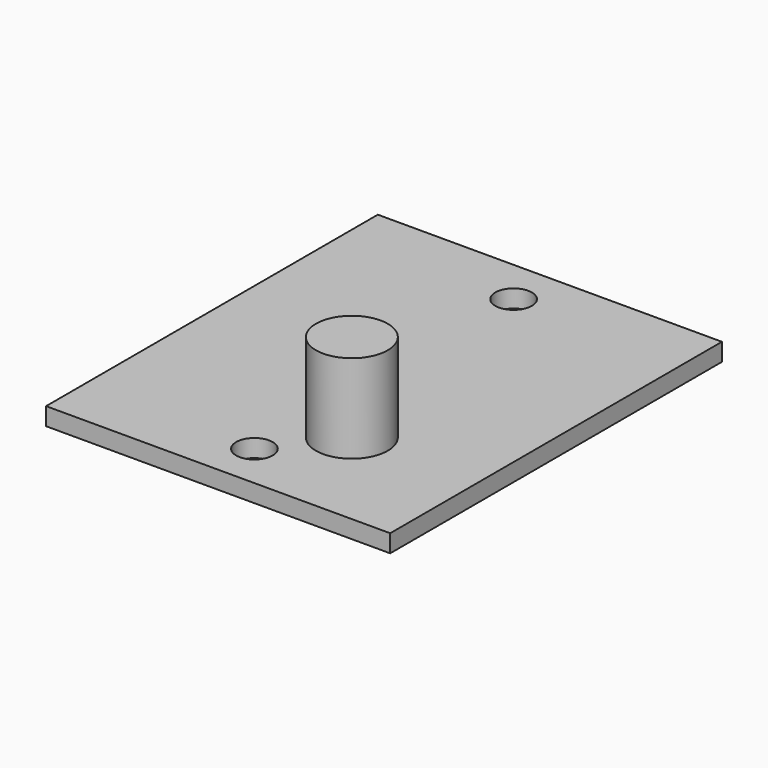
from build123d import *

# Parameters (mm, degrees)
SKETCH018_W             = 31.12
SKETCH018_H             = 37.5
PAD010_DEPTH            = 1.6
SKETCH019_R             = 1.65
POCKET006_DEPTH         = 99.115397
SKETCH032_R             = 3.25
PAD018_DEPTH            = 8
BODY003_PLACEMENT_ANGLE = 180


with BuildPart() as part:
    # Sketch018 → Pad010 (new body)
    with BuildSketch(Plane.XY):
        Rectangle(SKETCH018_W, SKETCH018_H)
    extrude(amount=PAD010_DEPTH)

    # Sketch019 (on Face5 of Pad010) → Pocket006 (cut, through all)
    with BuildSketch(Plane(origin=(0, 0, 0), x_dir=(1, 0, 0), z_dir=(0, 0, -1))):
        with Locations((0, 14.65)):
            Circle(SKETCH019_R)
    pocket006 = extrude(amount=-POCKET006_DEPTH, mode=Mode.SUBTRACT)

    # Mirrored008: Pocket006 across Sketch019 H_Axis
    add(pocket006.mirror(Plane(origin=(0, 0, 0), x_dir=(0, 0, -1), z_dir=(0, -1, 0))), mode=Mode.SUBTRACT)

    # Sketch032 (on Face5 of Mirrored008) → Pad018 (join)
    with BuildSketch(Plane.XY.offset(1.6)):
        with Locations((-4.296995, 9.00655)):
            Circle(SKETCH032_R)
    extrude(amount=PAD018_DEPTH)


with BuildPart() as part_1:
    # Body003 placement: moved
    add(part.part.moved(Location((0, 0, 10))).rotate(Axis((0, 0, 10), (0, 0, 1)), BODY003_PLACEMENT_ANGLE))


solid = part_1.part
